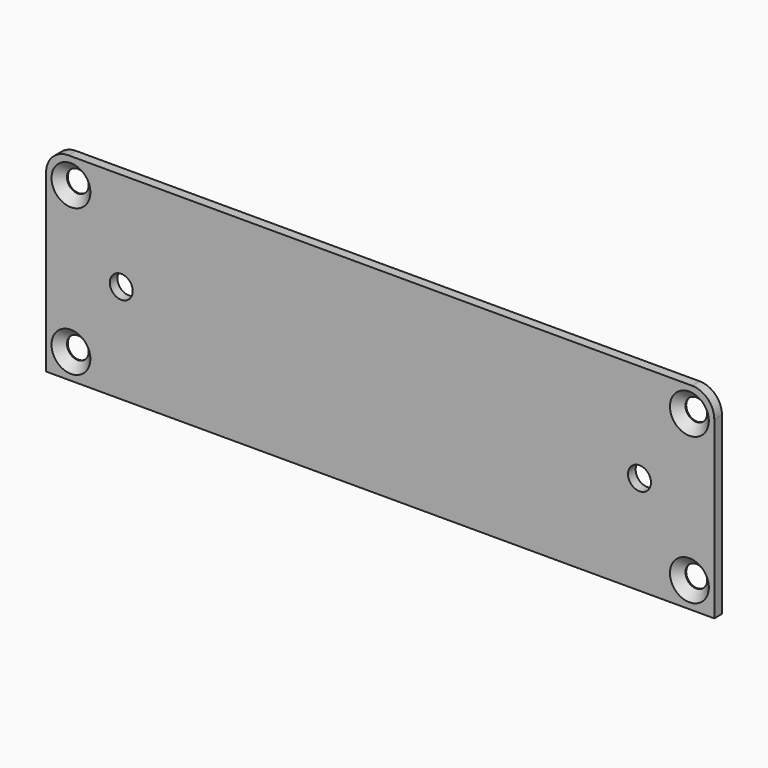
from build123d import *

# Parameters (mm, degrees)
SKETCH_W            = 104.8
SKETCH_H            = 31
PAD_DEPTH           = 1.5
HOLE_D              = 3.4
HOLE_DEPTH          = 25
HOLE_CSINK_D        = 6.1
HOLE_CSINK_ANGLE    = 90
FILLET_R            = 3.5
SKETCH002_R         = 1.8
POCKET_DEPTH        = 1.501
LINEARPATTERN_COUNT = 2
LINEARPATTERN_PITCH = 81.28


with BuildPart() as part:
    # Sketch → Pad (new body)
    with BuildSketch(Plane.XZ):
        Rectangle(SKETCH_W, SKETCH_H)
    extrude(amount=PAD_DEPTH)

    # Hole
    with Locations(Plane.XZ.offset(1.5)):
        with Locations((-48.5, 11.5), (-48.5, -11.5), (48.5, -11.5), (48.5, 11.5)):
            CounterSinkHole(HOLE_D / 2, HOLE_CSINK_D / 2, depth=HOLE_DEPTH, counter_sink_angle=HOLE_CSINK_ANGLE)

    # Fillet
    fillet_edges = [part.edges().sort_by_distance(p)[0] for p in [
        (-52.4, -0.75, 15.5),
        (52.4, -0.75, 15.5),
    ]]
    fillet(fillet_edges, radius=FILLET_R)

    # Sketch002 (on Face5 of Fillet) → Pocket (cut, through all)
    with BuildSketch(Plane.XZ.offset(1.5)):
        with Locations((-40.61, 0.03)):
            Circle(SKETCH002_R)
    pocket = extrude(amount=-POCKET_DEPTH, mode=Mode.SUBTRACT)

    # LinearPattern: Pocket ×2
    with Locations(*[(i * LINEARPATTERN_PITCH, 0, 0) for i in range(1, LINEARPATTERN_COUNT)]):
        add(pocket, mode=Mode.SUBTRACT)


solid = part.part
